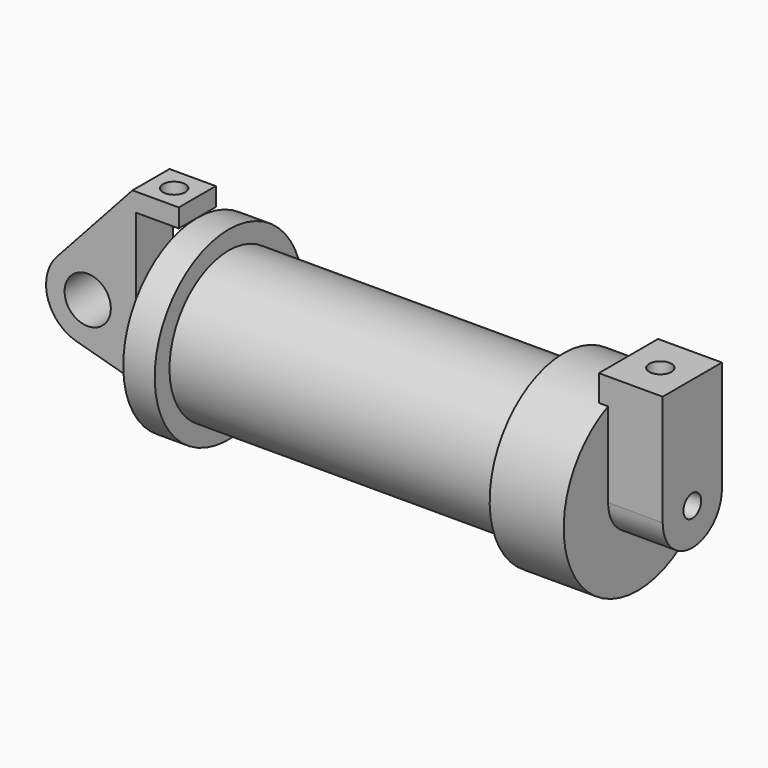
from build123d import *

# Parameters (mm, degrees)
F0_R      = 3.175
F1_DEPTH  = 3.175
F3_R      = 1.524
F4_DEPTH  = 1.27
F5_DEPTH  = 7.493
F6_DEPTH  = 56.134
F7_R      = 1.524
F9_DEPTH  = 10.414
F8_R      = 1.524
F10_DEPTH = 17.78


with BuildPart() as f1:
    # F0 (on Front) → F1 (new body, symmetric)
    with BuildSketch(Plane.XZ):
        with BuildLine():
            Line((-0.9398, 0), (0, 0))
            Line((0, 0), (0, 12.7))
            Line((0, 12.7), (5.842, 12.7))
            Line((5.842, 12.7), (5.842, 15.24))
            Line((5.842, 15.24), (-0.508, 15.24))
            Line((-0.508, 15.24), (-10.88063, 3.847543))
            ThreePointArc((-10.88063, 3.847543), (-4.591961, 5.329721), (-0.9398, 0))
        make_face()
        with BuildLine():
            Line((5.842, 0), (0, 0))
            Line((0, 0), (-0.9398, 0))
            ThreePointArc((-0.9398, 0), (-3.195791, -4.549339), (-8.182663, -5.506983))
            Line((-8.182663, -5.506983), (5.842, -9.398))
            Line((5.842, -9.398), (5.842, 0))
        make_face()
        with BuildLine():
            ThreePointArc((-8.182663, -5.506983), (-3.195791, -4.549339), (-0.9398, 0))
            ThreePointArc((-0.9398, 0), (-4.591961, 5.329721), (-10.88063, 3.847543))
            ThreePointArc((-10.88063, 3.847543), (-12.145978, -1.583727), (-8.182663, -5.506983))
        make_face()
        with Locations((-6.6548, 0)):
            Circle(F0_R, mode=Mode.SUBTRACT)
    extrude(amount=F1_DEPTH, both=True)

    # F8 (on face) → F10 (cut)
    with BuildSketch(Plane.XY.offset(15.24)):
        with Locations((2.667, 0)):
            Circle(F8_R)
    extrude(amount=-F10_DEPTH, mode=Mode.SUBTRACT)


with BuildPart() as f2:
    # F0 (on Front) → F2 (revolve)
    with BuildSketch(Plane.XZ):
        Polygon((5.842, 12.7), (5.842, 0), (66.294, 0), (66.294, 12.7), (56.134, 12.7), (56.134, 10.16), (10.16, 10.16), (10.16, 12.7), align=None)
    revolve(axis=Axis((33.147, 0, 0), (-1, 0, 0)))

    # F3 (on face) → F4 (join)
    with BuildSketch(Plane.YZ.offset(66.294)):
        with BuildLine():
            ThreePointArc((-5.08, 0), (0, -5.08), (5.08, 0))
            ThreePointArc((5.08, 0), (0, 5.08), (-5.08, 0))
        make_face()
        Circle(F3_R, mode=Mode.SUBTRACT)
        with BuildLine():
            ThreePointArc((-5.08, 0), (0, 5.08), (5.08, 0))
            Line((5.08, 0), (5.08, 15.24))
            Line((5.08, 15.24), (-5.08, 15.24))
            Line((-5.08, 15.24), (-5.08, 0))
        make_face()
    extrude(amount=-F4_DEPTH)

    # F3 (on face) → F5 (join)
    with BuildSketch(Plane.YZ.offset(66.294)):
        with BuildLine():
            ThreePointArc((-5.08, 0), (0, -5.08), (5.08, 0))
            ThreePointArc((5.08, 0), (0, 5.08), (-5.08, 0))
        make_face()
        Circle(F3_R, mode=Mode.SUBTRACT)
        with BuildLine():
            ThreePointArc((-5.08, 0), (0, 5.08), (5.08, 0))
            Line((5.08, 0), (5.08, 15.24))
            Line((5.08, 15.24), (-5.08, 15.24))
            Line((-5.08, 15.24), (-5.08, 0))
        make_face()
    extrude(amount=F5_DEPTH)

    # F3 (on face) → F6 (cut, through all)
    with BuildSketch(Plane.YZ.offset(66.294)):
        Circle(F3_R)
    extrude(amount=-F6_DEPTH, mode=Mode.SUBTRACT)

    # F7 (on face) → F9 (cut)
    with BuildSketch(Plane.XY.offset(15.24)):
        with Locations((69.4055, 0)):
            Circle(F7_R)
    extrude(amount=-F9_DEPTH, mode=Mode.SUBTRACT)


solid = Compound([f1.part, f2.part])
